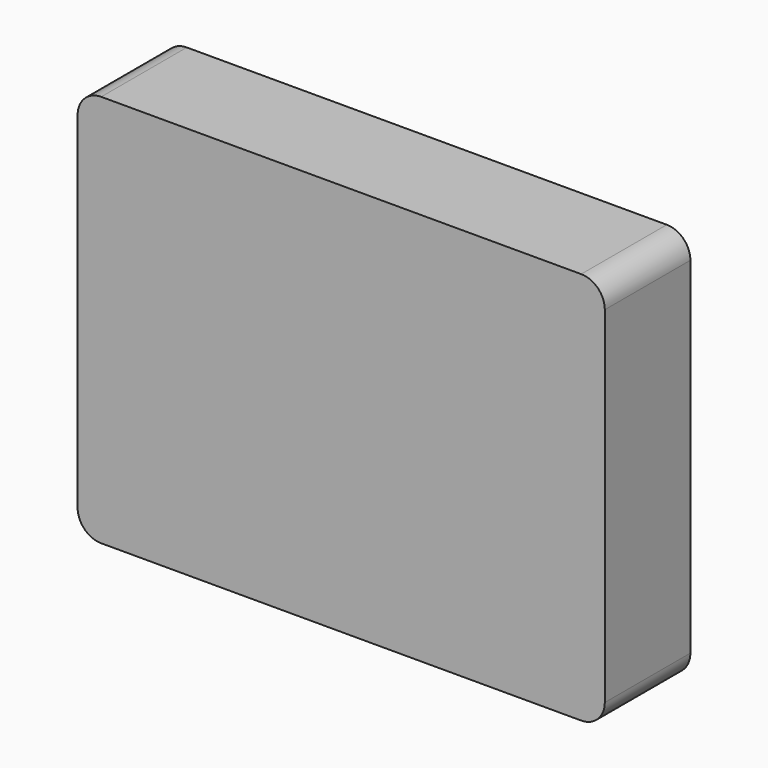
from build123d import *

# Parameters (mm, degrees)
F0_W     = 133.8326
F0_H     = 99.7712
F1_DEPTH = 27.1526
F2_R     = 5.9944


with BuildPart() as f1:
    # F0 (on Front) → F1 (new body)
    with BuildSketch(Plane.XZ):
        with Locations((66.9163, 49.8856)):
            Rectangle(F0_W, F0_H)
    extrude(amount=-F1_DEPTH)

    # F2
    f2_edges = [f1.edges().sort_by_distance(p)[0] for p in [
        (133.8326, 13.5763, 99.7712),
        (133.8326, 13.5763, 0),
        (0, 13.5763, 0),
        (0, 13.5763, 99.7712),
    ]]
    fillet(f2_edges, radius=F2_R)


solid = f1.part
